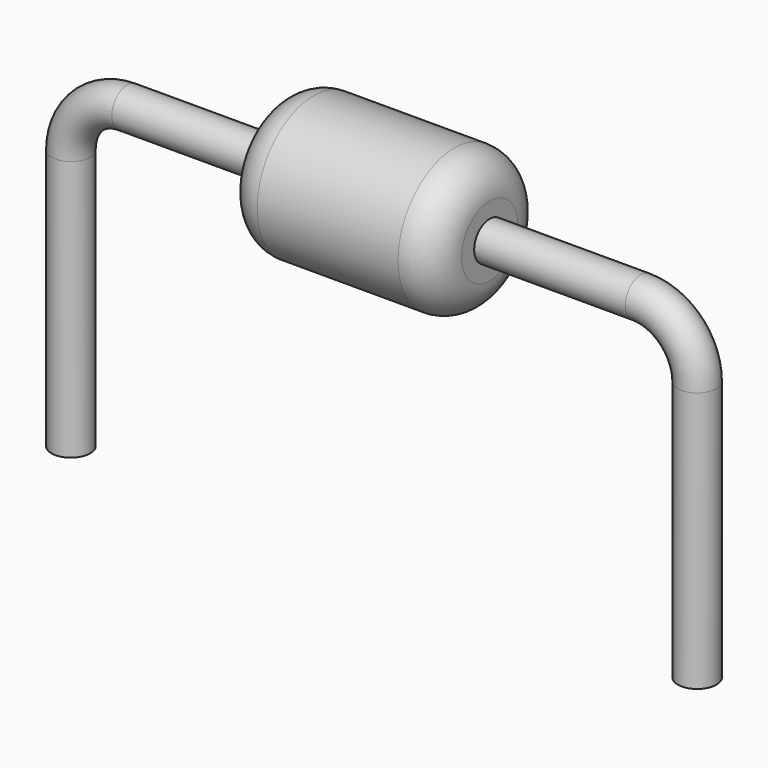
from build123d import *

# Parameters (mm, degrees)
F3_R = 0.275


with BuildPart() as f1:
    # F0 (on Top) → F1 (revolve)
    with BuildSketch(Plane.XY):
        with BuildLine():
            Line((0, 0), (0, 1))
            Line((0, 1), (-1, 1))
            ThreePointArc((-1, 1), (-1.3535533906, 0.8535533906), (-1.5, 0.5))
            Line((-1.5, 0.5), (-1.5, 0))
            Line((-1.5, 0), (0, 0))
        make_face()
    revolve(axis=Axis((-0.75, 0, 0), (-1, 0, 0)))

    # F2: F1 across face


with BuildPart() as f1_1:
    add(f1.part)
    add(f1.part.mirror(Plane.YZ))



with BuildPart() as f5:
    # F5: sweep along a path in F4
    with BuildLine(Plane.XZ) as f5_path:
        Line((0, 0), (3.645, 0))
        ThreePointArc((3.645, 0), (4.2106854249, -0.2343145751), (4.445, -0.8))
        Line((4.445, -0.8), (4.445, -4.5))
    # F3 (on Right) → F5 (sweep)
    with BuildSketch(Plane.YZ):
        Circle(F3_R)
    sweep(path=f5_path.line)


with BuildPart() as f1_2:
    add(f1_1.part)

    add(f5.part)  # F6 merges F5
    # F6: F5 across plane
    add(f5.part.mirror(Plane.YZ))


solid = f1_2.part
